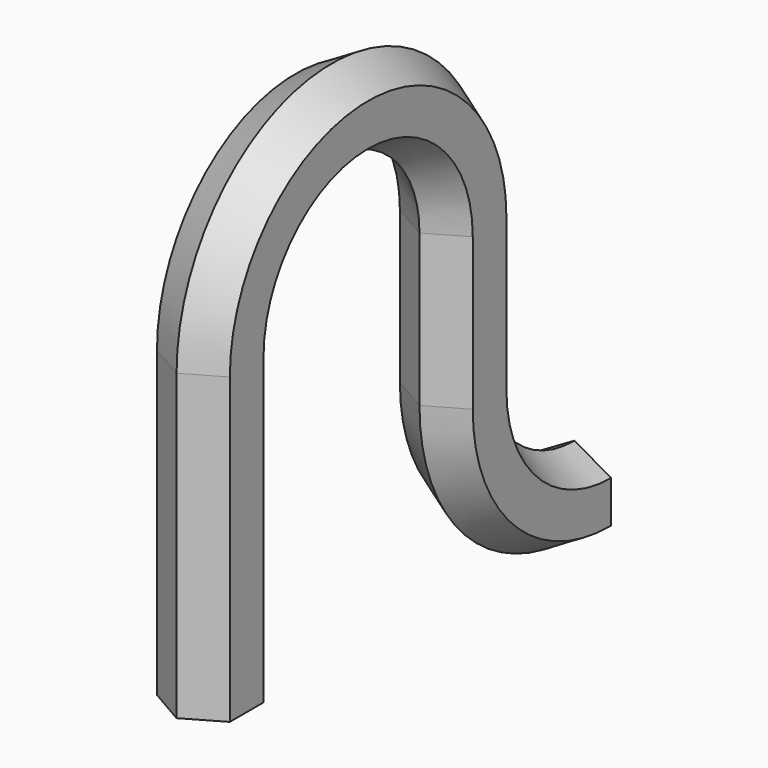
from build123d import *


with BuildPart() as f2:
    # F2: sweep along a path in F0
    with BuildLine(Plane.YZ) as f2_path:
        Line((0, 0), (0, 50))
        ThreePointArc((0, 50), (25, 75), (50, 50))
        Line((50, 50), (50, 25))
        ThreePointArc((50, 25), (57.32233, 7.32233), (75, 0))
    # F1 (on Top) → F2 (sweep)
    with BuildSketch(Plane.XY):
        Polygon((6, -3.464102), (6, 3.464102), (0, 6.928203), (-6, 3.464102), (-6, -3.464102), (0, -6.928203), align=None)
    sweep(path=f2_path.line)


solid = f2.part
